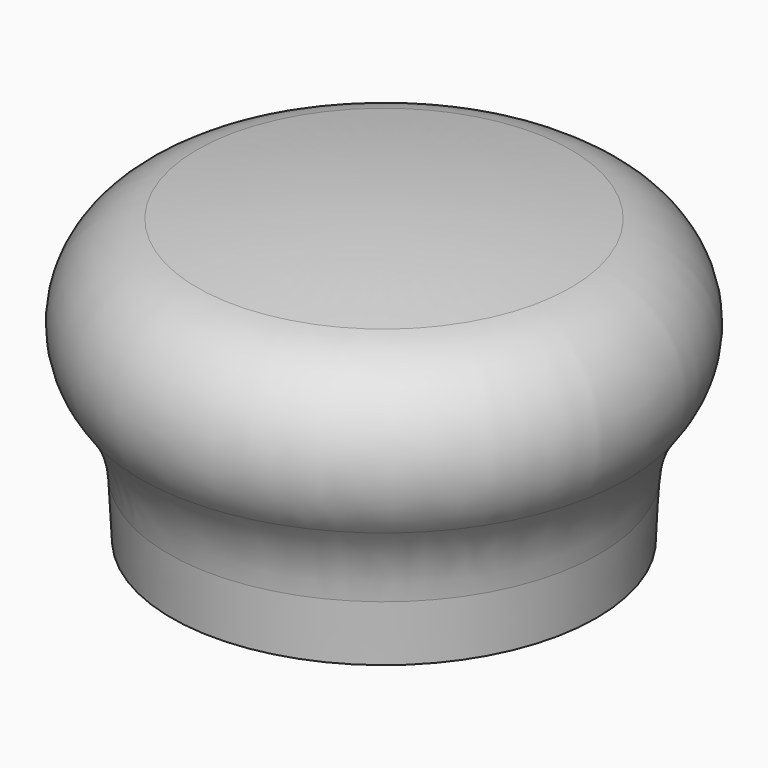
from build123d import *

# Parameters (mm, degrees)
F3_START = 3
F3_DEPTH = 11.3


with BuildPart() as f1:
    # F0 (on Front) → F1 (revolve)
    with BuildSketch(Plane.XZ):
        with BuildLine():
            Line((0, 10), (0, 26))
            ThreePointArc((0, 26), (-8.1639853644, 25.649354345), (-16.2678403028, 24.6))
            ThreePointArc((-16.2678403028, 24.6), (-22.4671567009, 19.4928871937), (-21.2422252804, 11.5547723019))
            ThreePointArc((-21.2422252804, 11.5547723019), (-19.490874253, 8.4671671574), (-18.7616797812, 4.9931476738))
            Line((-18.7616797812, 4.9931476738), (-18.5, 0))
            Line((-18.5, 0), (-2.5, 0))
            Line((-2.5, 0), (-2.5, 10))
            Line((-2.5, 10), (0, 10))
        make_face()
    revolve(axis=Axis((0, 0, 13), (0, 0, 1)))

    # F2 (on Top) → F3 (cut)
    with BuildSketch(Plane.XY.offset(F3_START)):
        Polygon((-1.9629909152, -3.4), (1.9629909152, -3.4), (3.9259818305, 0), (1.9629909152, 3.4), (-1.9629909152, 3.4), (-3.9259818305, 0), align=None)
    extrude(amount=F3_DEPTH, mode=Mode.SUBTRACT)


solid = f1.part
